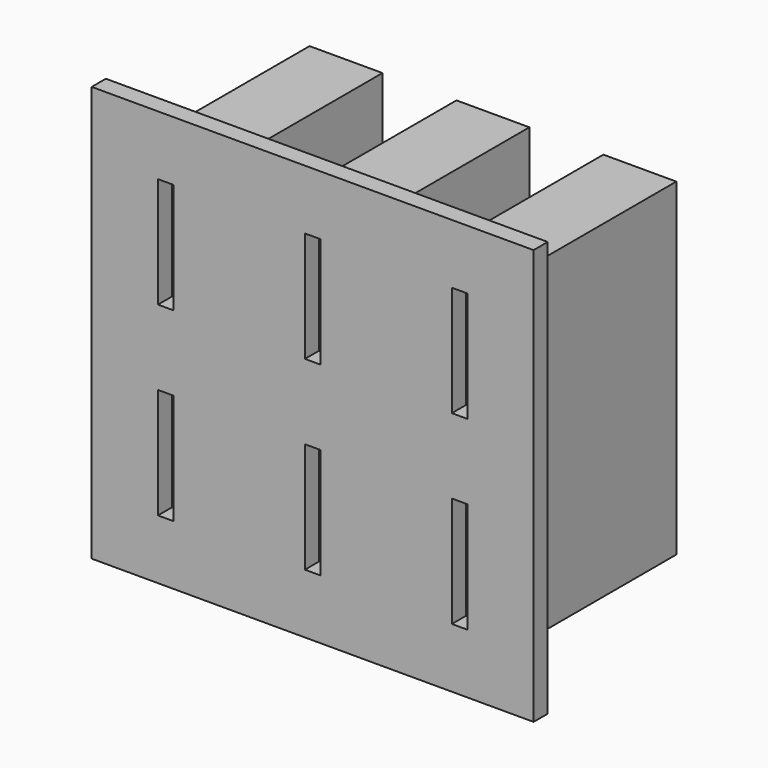
from build123d import *

# Parameters (mm, degrees)
F0_W     = 4.191
F0_H     = 9.4390108662
F0_W_2   = 2.159
F0_H_2   = 7.366
F0_W_3   = 0.889
F0_H_3   = 6.35
F1_DEPTH = 1.016
F2_DEPTH = 12.954


with BuildPart() as f1:
    # F0 (on Front) → F1 (new body)
    with BuildSketch(Plane.XZ):
        Polygon((-8.4455, 12.408932417), (-12.7, 12.408932417), (-12.7, -11.467067583), (12.7, -11.467067583), (12.7, 12.408932417), (0, 12.408932417), align=None)
        Polygon((-6.35, 9.9099432833), (-6.35, 0.470932417), (-6.35, -8.9680784492), (-10.541, -8.9680784492), (-10.541, 0.470932417), (-10.541, 9.9099432833), align=None, mode=Mode.SUBTRACT)
        Polygon((-2.0955, -8.9680784492), (-2.0955, 0.470932417), (-2.0955, 9.9099432833), (2.0955, 9.9099432833), (2.0955, 0.470932417), (2.0955, -8.9680784492), align=None, mode=Mode.SUBTRACT)
        Polygon((6.35, -8.9680784492), (6.35, 0.470932417), (6.35, 9.9099432833), (10.541, 9.9099432833), (10.541, 0.470932417), (10.541, -8.9680784492), align=None, mode=Mode.SUBTRACT)
        with Locations((-8.4455, 5.1904378501)):
            Rectangle(F0_W, F0_H)
        with Locations((-8.4455, 5.804932417)):
            Rectangle(F0_W_2, F0_H_2, mode=Mode.SUBTRACT)
        with Locations((-8.4455, 5.804932417)):
            Rectangle(F0_W_2, F0_H_2)
        with Locations((-8.4455, 5.804932417)):
            Rectangle(F0_W_3, F0_H_3, mode=Mode.SUBTRACT)
        with Locations((0, 5.1904378501)):
            Rectangle(F0_W, F0_H)
        with Locations((0, 5.804932417)):
            Rectangle(F0_W_2, F0_H_2, mode=Mode.SUBTRACT)
        with Locations((0, 5.804932417)):
            Rectangle(F0_W_2, F0_H_2)
        with Locations((0, 5.804932417)):
            Rectangle(F0_W_3, F0_H_3, mode=Mode.SUBTRACT)
        with Locations((0, -4.2485730161)):
            Rectangle(F0_W, F0_H)
        with Locations((0, -4.863067583)):
            Rectangle(F0_W_2, F0_H_2, mode=Mode.SUBTRACT)
        with Locations((0, -4.863067583)):
            Rectangle(F0_W_2, F0_H_2)
        with Locations((0, -4.863067583)):
            Rectangle(F0_W_3, F0_H_3, mode=Mode.SUBTRACT)
        with Locations((-8.4455, -4.2485730161)):
            Rectangle(F0_W, F0_H)
        with Locations((-8.4455, -4.863067583)):
            Rectangle(F0_W_2, F0_H_2, mode=Mode.SUBTRACT)
        with Locations((-8.4455, -4.863067583)):
            Rectangle(F0_W_2, F0_H_2)
        with Locations((-8.4455, -4.863067583)):
            Rectangle(F0_W_3, F0_H_3, mode=Mode.SUBTRACT)
        with Locations((8.4455, -4.2485730161)):
            Rectangle(F0_W, F0_H)
        with Locations((8.4455, -4.863067583)):
            Rectangle(F0_W_2, F0_H_2, mode=Mode.SUBTRACT)
        with Locations((8.4455, -4.863067583)):
            Rectangle(F0_W_2, F0_H_2)
        with Locations((8.4455, -4.863067583)):
            Rectangle(F0_W_3, F0_H_3, mode=Mode.SUBTRACT)
        with Locations((8.4455, 5.1904378501)):
            Rectangle(F0_W, F0_H)
        with Locations((8.4455, 5.804932417)):
            Rectangle(F0_W_2, F0_H_2, mode=Mode.SUBTRACT)
        with Locations((8.4455, 5.804932417)):
            Rectangle(F0_W_2, F0_H_2)
        with Locations((8.4455, 5.804932417)):
            Rectangle(F0_W_3, F0_H_3, mode=Mode.SUBTRACT)
    extrude(amount=-F1_DEPTH)

    # F0 (on Front) → F2 (join)
    with BuildSketch(Plane.XZ):
        with Locations((-8.4455, 5.1904378501)):
            Rectangle(F0_W, F0_H)
        with Locations((-8.4455, 5.804932417)):
            Rectangle(F0_W_2, F0_H_2, mode=Mode.SUBTRACT)
        with Locations((-8.4455, -4.2485730161)):
            Rectangle(F0_W, F0_H)
        with Locations((-8.4455, -4.863067583)):
            Rectangle(F0_W_2, F0_H_2, mode=Mode.SUBTRACT)
        with Locations((0, 5.1904378501)):
            Rectangle(F0_W, F0_H)
        with Locations((0, 5.804932417)):
            Rectangle(F0_W_2, F0_H_2, mode=Mode.SUBTRACT)
        with Locations((0, -4.2485730161)):
            Rectangle(F0_W, F0_H)
        with Locations((0, -4.863067583)):
            Rectangle(F0_W_2, F0_H_2, mode=Mode.SUBTRACT)
        with Locations((8.4455, 5.1904378501)):
            Rectangle(F0_W, F0_H)
        with Locations((8.4455, 5.804932417)):
            Rectangle(F0_W_2, F0_H_2, mode=Mode.SUBTRACT)
        with Locations((8.4455, -4.2485730161)):
            Rectangle(F0_W, F0_H)
        with Locations((8.4455, -4.863067583)):
            Rectangle(F0_W_2, F0_H_2, mode=Mode.SUBTRACT)
    extrude(amount=-F2_DEPTH)


solid = f1.part
